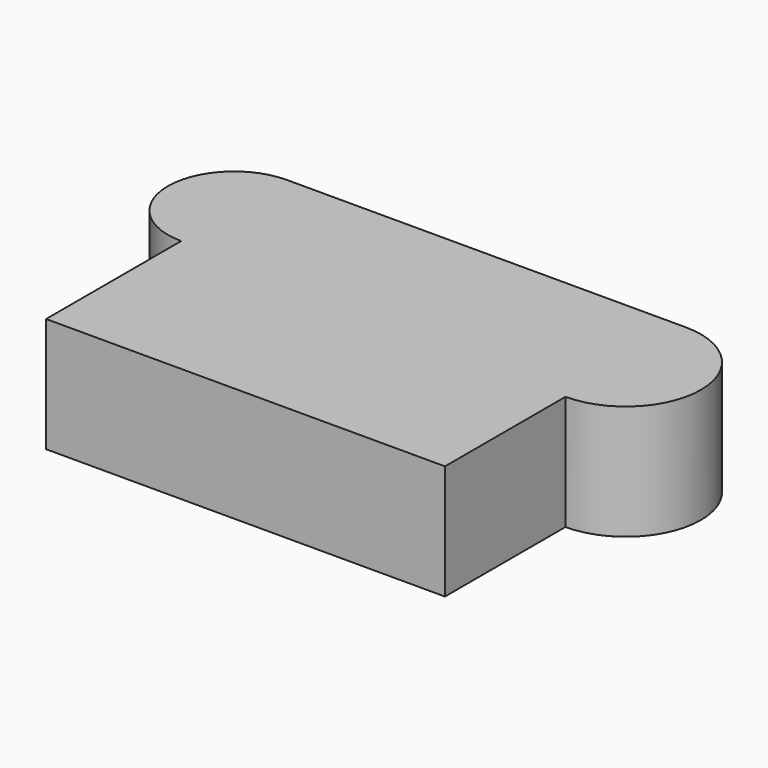
from build123d import *

# Parameters (mm, degrees)
F1_DEPTH = 86.007776


with BuildPart() as f1:
    # F0 (on Top) → F1 (new body)
    with BuildSketch(Plane.XY):
        Polygon((149.626926, 0), (149.626926, 112.95262), (-149.626926, 112.95262), (-149.626926, 13.745412), (-149.626926, -112.95262), (149.626926, -112.95262), align=None)
        with BuildLine():
            Line((-149.626926, 13.745412), (-149.626926, 112.95262))
            ThreePointArc((-149.626926, 112.95262), (-199.230529, 63.349016), (-149.626926, 13.745412))
        make_face()
        with BuildLine():
            ThreePointArc((149.626926, 0), (206.103235, 56.47631), (149.626926, 112.95262))
            Line((149.626926, 112.95262), (149.626926, 0))
        make_face()
    extrude(amount=F1_DEPTH)


solid = f1.part
